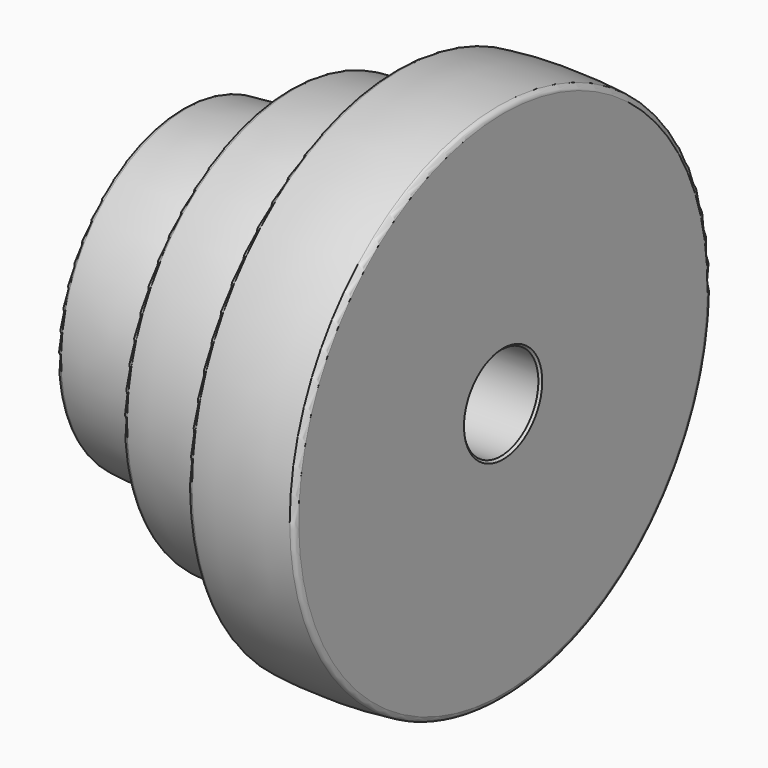
from build123d import *

# Parameters (mm, degrees)
F2_SIZE = 0.508


with BuildPart() as f1:
    # F0 (on Front) → F1 (revolve)
    with BuildSketch(Plane.XZ):
        with BuildLine():
            Line((0, 24.2736727498), (0, -0.6985))
            Line((0, -0.6985), (76.250555301, -0.6985))
            Line((76.250555301, -0.6985), (76.250555301, 48.8709875038))
            ThreePointArc((76.250555301, 48.8709875038), (75.9285692317, 49.716073054), (75.1258787858, 50.1326455735))
            ThreePointArc((75.1258787858, 50.1326455735), (63.5257661171, 50.7999967328), (51.9253164554, 50.1385293178))
            ThreePointArc((51.9253164554, 50.1385293178), (51.1582807319, 49.7408308388), (50.8505553007, 48.9334815091))
            Line((50.8505553007, 48.9334815091), (50.8505553007, 39.1168238164))
            ThreePointArc((50.8505553007, 39.1168238164), (50.4264170251, 38.1695023592), (49.4372986973, 37.8549293891))
            ThreePointArc((49.4372986973, 37.8549293891), (38.0532248702, 38.5033464415), (26.6681880628, 37.8720632503))
            ThreePointArc((26.6681880628, 37.8720632503), (25.8628606681, 37.4565289982), (25.5395453423, 36.6099546497))
            Line((25.5395453423, 36.6099546497), (25.5395453423, 26.9547161283))
            ThreePointArc((25.5395453423, 26.9547161283), (25.0743484063, 25.9145041564), (23.9888888889, 25.5677668324))
            ThreePointArc((23.9888888889, 25.5677668324), (12.5561894351, 26.1967732695), (1.1253164557, 25.5354043663))
            ThreePointArc((1.1253164557, 25.5354043663), (0.3222004164, 25.1189986925), (0, 24.2736727498))
        make_face()
    revolve(axis=Axis((-36.5113655057, 0, -11.811), (1, 0, 0)))

    # F2
    f2_edges = [f1.edges().sort_by_distance(p)[0] for p in [
        (76.250555, 0, -22.9235),
        (0, 0, -22.9235),
    ]]
    chamfer(f2_edges, length=F2_SIZE)


solid = f1.part
